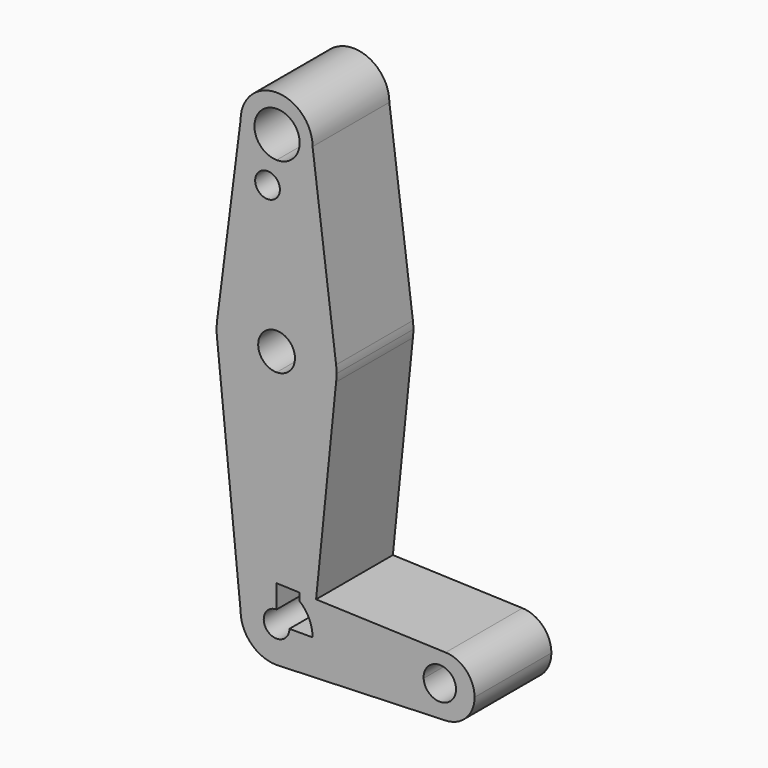
from build123d import *

# Parameters (mm, degrees)
F1_DEPTH = 25.4


with BuildPart() as f1:
    # F0 (on Front) → F1 (new body)
    with BuildSketch(Plane.XZ):
        with BuildLine():
            ThreePointArc((-9.525, 114.3), (-6.7351920908, 107.5648079092), (0, 104.775))
            ThreePointArc((0, 104.775), (6.7351920908, 107.5648079092), (9.525, 114.3))
            ThreePointArc((9.525, 114.3), (0, 123.825), (-9.525, 114.3))
        make_face()
        with BuildLine():
            ThreePointArc((6.104734078, 114.063590765), (4.3089160173, 109.7911312939), (0, 108.084639221))
            ThreePointArc((0, 108.084639221), (-4.0599425849, 118.3360502361), (6.104734078, 114.063590765))
        make_face(mode=Mode.SUBTRACT)
        with BuildLine():
            ThreePointArc((9.525, 114.3), (6.7351920908, 107.5648079092), (0, 104.775))
            Line((0, 104.775), (0, 103.7053296111))
            ThreePointArc((0, 103.7053296111), (0.6520493641, 102.6722677878), (0.8799784566, 101.4720872045))
            ThreePointArc((0.8799784566, 101.4720872045), (0.6520493641, 100.2719066211), (0, 99.2388447978))
            Line((0, 99.2388447978), (0, 79.375))
            ThreePointArc((0, 79.375), (10.4912828548, 75.4142187767), (15.7474569047, 65.5082893304))
            Line((15.7474569047, 65.5082893304), (9.525, 114.3))
        make_face()
        with BuildLine():
            Line((0, 103.7053296111), (0, 104.775))
            ThreePointArc((0, 104.775), (-6.7351920908, 107.5648079092), (-9.525, 114.3))
            Line((-9.525, 114.3), (-15.7474569047, 65.5082893304))
            ThreePointArc((-15.7474569047, 65.5082893304), (-10.4912828548, 75.4142187767), (0, 79.375))
            Line((0, 79.375), (0, 99.2388447978))
            ThreePointArc((0, 99.2388447978), (-5.6676065299, 101.4720872045), (0, 103.7053296111))
        make_face()
        with BuildLine():
            ThreePointArc((0, 79.375), (-10.4912828548, 75.4142187767), (-15.7474569047, 65.5082893304))
            ThreePointArc((-15.7474569047, 65.5082893304), (-15.875, 63.5), (-15.7474569047, 61.4917106696))
            ThreePointArc((-15.7474569047, 61.4917106696), (-10.4912828548, 51.5857812233), (0, 47.625))
            Line((0, 47.625), (0, 58.6328048089))
            ThreePointArc((0, 58.6328048089), (-4.8671951911, 63.5), (0, 68.3671951911))
            Line((0, 68.3671951911), (0, 79.375))
        make_face()
        with BuildLine():
            ThreePointArc((15.875, 63.5), (15.8430821396, 64.5061676396), (15.7474569047, 65.5082893304))
            ThreePointArc((15.7474569047, 65.5082893304), (10.4912828548, 75.4142187767), (0, 79.375))
            Line((0, 79.375), (0, 68.3671951911))
            ThreePointArc((0, 68.3671951911), (3.441626725, 66.941626725), (4.8671951911, 63.5))
            ThreePointArc((4.8671951911, 63.5), (3.441626725, 60.058373275), (0, 58.6328048089))
            Line((0, 58.6328048089), (0, 47.625))
            ThreePointArc((0, 47.625), (10.4912828548, 51.5857812233), (15.7474569047, 61.4917106696))
            ThreePointArc((15.7474569047, 61.4917106696), (15.8430821396, 62.4938323604), (15.875, 63.5))
        make_face()
        with BuildLine():
            ThreePointArc((0, 47.625), (-10.4912828548, 51.5857812233), (-15.7474569047, 61.4917106696))
            Line((-15.7474569047, 61.4917106696), (-9.525, 0))
            ThreePointArc((-9.525, 0), (-6.7351920908, 6.7351920908), (0, 9.525))
            Line((0, 9.525), (0, 47.625))
        make_face()
        with BuildLine():
            ThreePointArc((15.7474569047, 61.4917106696), (10.4912828548, 51.5857812233), (0, 47.625))
            Line((0, 47.625), (0, 9.525))
            ThreePointArc((0, 9.525), (0.3388863295, 9.5189695375), (0.6773435479, 9.500885786))
            Line((0.6773435479, 9.500885786), (6.104734078, 9.3076644033))
            Line((6.104734078, 9.3076644033), (10.451200974, 9.1529251528))
            Line((10.451200974, 9.1529251528), (15.7474569047, 61.4917106696))
        make_face()
        with BuildLine():
            ThreePointArc((0, 9.525), (-6.7351920908, 6.7351920908), (-9.525, 0))
            ThreePointArc((-9.525, 0), (-6.7351920908, -6.7351920908), (0, -9.525))
            Line((0, -9.525), (0.6773435479, -9.500885786))
            ThreePointArc((0.6773435479, -9.500885786), (6.9705567315, -6.4912990883), (9.525, 0))
            Line((9.525, 0), (3.3982770983, 0))
            ThreePointArc((3.3982770983, 0), (-2.4029447806, -2.4029447806), (0, 3.3982770983))
            Line((0, 3.3982770983), (0, 9.525))
        make_face()
        with BuildLine():
            Line((0.6773435479, -9.500885786), (0, -9.525))
            ThreePointArc((0, -9.525), (0.3388863295, -9.5189695375), (0.6773435479, -9.500885786))
        make_face()
        with BuildLine():
            Line((9.525, 0), (10.451200974, 9.1529251528))
            Line((10.451200974, 9.1529251528), (6.104734078, 9.3076644033))
            Line((6.104734078, 9.3076644033), (6.104734078, 7.3114873204))
            ThreePointArc((6.104734078, 7.3114873204), (8.627665301, 4.0359653682), (9.525, 0))
        make_face()
        with BuildLine():
            Line((44.7324052746, 7.9324746146), (10.451200974, 9.1529251528))
            Line((10.451200974, 9.1529251528), (9.525, 0))
            Line((9.525, 0), (36.5125, 0))
            ThreePointArc((36.5125, 0), (38.9380895153, 5.7116327839), (44.7324052746, 7.9324746146))
        make_face()
        with BuildLine():
            ThreePointArc((9.525, 0), (6.9705567315, -6.4912990883), (0.6773435479, -9.500885786))
            Line((0.6773435479, -9.500885786), (44.7324052746, -7.9324746146))
            ThreePointArc((44.7324052746, -7.9324746146), (38.9380895153, -5.7116327839), (36.5125, 0))
            Line((36.5125, 0), (9.525, 0))
        make_face()
        with BuildLine():
            ThreePointArc((52.3875, 0), (50.1616327839, 5.5119104847), (44.7324052746, 7.9324746146))
            ThreePointArc((44.7324052746, 7.9324746146), (38.9380895153, 5.7116327839), (36.5125, 0))
            ThreePointArc((36.5125, 0), (38.9380895153, -5.7116327839), (44.7324052746, -7.9324746146))
            ThreePointArc((44.7324052746, -7.9324746146), (50.1616327839, -5.5119104847), (52.3875, 0))
        make_face()
        with BuildLine():
            ThreePointArc((47.4750581285, 0.236410473), (43.305671032, -4.0495958985), (38.9063060284, 0))
            ThreePointArc((38.9063060284, 0), (43.0691705984, 4.5224168445), (47.4750581285, 0.236410473))
        make_face(mode=Mode.SUBTRACT)
    extrude(amount=F1_DEPTH)


solid = f1.part
